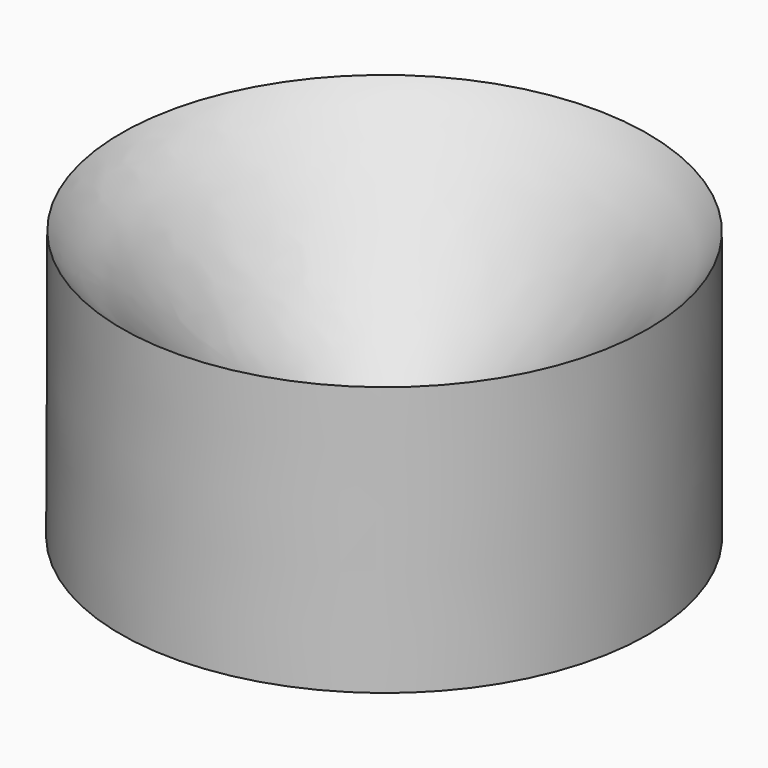
from build123d import *


with BuildPart() as f1:
    # F0 (on Front) → F1 (revolve)
    with BuildSketch(Plane.XZ):
        with BuildLine():
            add(Edge.make_bspline(
                [(0, 0), (1.0537699697, 1.3659175794), (3.4159996914, 4.4278866962), (9.4892812571, 10.4967318406), (14.7059598169, 15.3117528766), (19.599351584, 20.9365023125), (24.4876066732, 24.9296042225), (30.542940558, 31.2648509731), (38.3488768155, 39.8501962783), (41.5832249059, 42.3007887636), (45.1067953072, 45.6237902587), (46.3261475087, 47.2135950627), (46.8641044932, 47.9149892926)],
                knots=[0, 0, 0, 0, 0.0923501094, 0.2070206776, 0.3134908357, 0.4192634343, 0.5168958816, 0.6354541926, 0.7684513167, 0.8491635697, 0.9334535903, 1, 1, 1, 1], degree=3))
            Line((0, 0), (46.8641044932, 0))
            Line((46.8641044932, 0), (46.8641044932, 47.9149892926))
        make_face()
    revolve(axis=Axis((-0.065572618, 0, 34.2842489481), (0.0019126129, 0, 0.999998171)))


solid = f1.part
